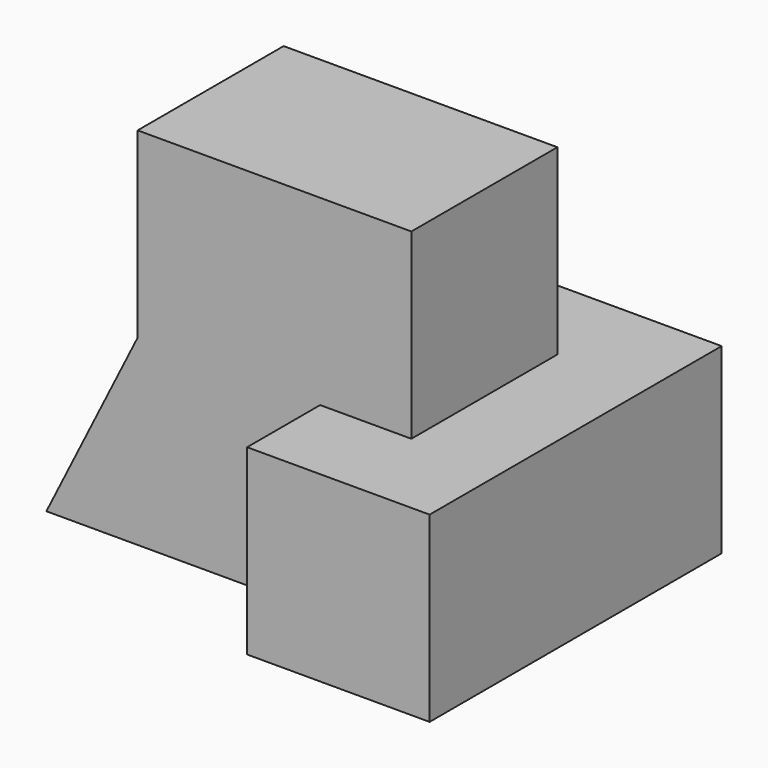
from build123d import *

# Parameters (mm, degrees)
F0_W     = 50
F0_H     = 40
F1_DEPTH = 40
F2_W     = 10
F2_H     = 20
F3_DEPTH = 50.001
F4_W     = 30
F4_H     = 10
F5_DEPTH = 20.001
F6_W     = 10
F6_H     = 20
F7_DEPTH = 20
F8_W     = 10
F8_H     = 20
F9_DEPTH = 30.001


with BuildPart() as f1:
    # F0 (on Front) → F1 (new body)
    with BuildSketch(Plane.XZ):
        with Locations((25, 20)):
            Rectangle(F0_W, F0_H)
    extrude(amount=F1_DEPTH)

    # F2 (on face) → F3 (cut, through all)
    with BuildSketch(Plane(origin=(0, 0, 0), x_dir=(0, -1, 0), z_dir=(-1, 0, 0))):
        with Locations((5, 30)):
            Rectangle(F2_W, F2_H)
        with Locations((35, 30)):
            Rectangle(F2_W, F2_H)
    extrude(amount=-F3_DEPTH, mode=Mode.SUBTRACT)

    # F4 (on face) → F5 (cut, through all)
    with BuildSketch(Plane.XY.offset(20)):
        with Locations((15, -5)):
            Rectangle(F4_W, F4_H)
        with Locations((15, -35)):
            Rectangle(F4_W, F4_H)
    extrude(amount=-F5_DEPTH, mode=Mode.SUBTRACT)

    # F6 (on face) → F7 (cut, through all)
    with BuildSketch(Plane.XY.offset(40)):
        with Locations((45, -20)):
            Rectangle(F6_W, F6_H)
    extrude(amount=-F7_DEPTH, mode=Mode.SUBTRACT)

    # F8 (on face) → F9 (cut, through all)
    with BuildSketch(Plane.XZ.offset(30)):
        with Locations((5, 30)):
            Rectangle(F8_W, F8_H)
        Polygon((10, 20), (0, 20), (0, 0), align=None)
    extrude(amount=-F9_DEPTH, mode=Mode.SUBTRACT)


solid = f1.part
